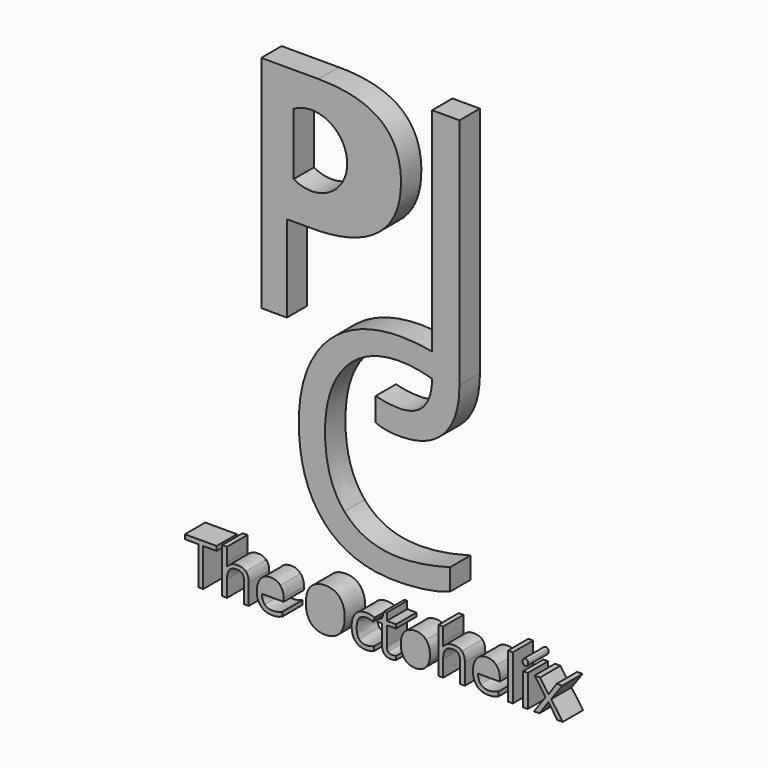
from build123d import *

# Parameters (mm, degrees)
F0_W     = 81.1557248235
F0_H     = 58.2411698997
F1_DEPTH = 2.54
F2_W     = 81.1557248235
F2_H     = 58.2411698997
F2_W_2   = 0.4790653164
F2_H_2   = 3.1614618665
F2_H_3   = 4.4888143231
F3_DEPTH = 25.4
F5_DEPTH = 25.4


with BuildPart() as f1:
    # F0 (on Front) → F1 (new body)
    with BuildSketch(Plane.XZ):
        with Locations((0.0954754651, 1.2412052602)):
            Rectangle(F0_W, F0_H)
    extrude(amount=F1_DEPTH)

    # F2 (on face) → F3 (cut)
    with BuildSketch(Plane.XZ.offset(2.54)):
        with Locations((0.0954754651, 1.2412052602)):
            Rectangle(F2_W, F2_H)
        with BuildLine():
            add(Edge.make_bspline(
                [(-10.8295296872, -25.9732544819), (-11.0556780543, -26.021253319), (-11.3759779865, -26.021253319)],
                knots=[0, 0, 0, 1, 1, 1], degree=2))
            add(Edge.make_bspline(
                [(-11.3759779865, -26.021253319), (-12.0765763972, -26.021253319), (-12.4822588761, -25.593879058)],
                knots=[0, 0, 0, 1, 1, 1], degree=2))
            add(Edge.make_bspline(
                [(-12.4822588761, -25.593879058), (-12.887941355, -25.1665047969), (-12.887941355, -24.4086770035)],
                knots=[0, 0, 0, 1, 1, 1], degree=2))
            add(Edge.make_bspline(
                [(-12.887941355, -24.4086770035), (-12.887941355, -23.6434647736), (-12.5113350947, -23.1934756759)],
                knots=[0, 0, 0, 1, 1, 1], degree=2))
            add(Edge.make_bspline(
                [(-12.5113350947, -23.1934756759), (-12.1347288344, -22.7434865781), (-11.4996672975, -22.7434865781)],
                knots=[0, 0, 0, 1, 1, 1], degree=2))
            add(Edge.make_bspline(
                [(-11.4996672975, -22.7434865781), (-10.9061432157, -22.7434865781), (-10.5599977558, -23.134400184)],
                knots=[0, 0, 0, 1, 1, 1], degree=2))
            add(Edge.make_bspline(
                [(-10.5599977558, -23.134400184), (-10.213852296, -23.52531379), (-10.213852296, -24.1659136543)],
                knots=[0, 0, 0, 1, 1, 1], degree=2))
            Line((-10.213852296, -24.1659136543), (-10.213852296, -24.4686755499))
            Line((-10.213852296, -24.4686755499), (-12.391338002, -24.4686755499))
            add(Edge.make_bspline(
                [(-12.391338002, -24.4686755499), (-12.376569129, -25.0252774493), (-12.1098063613, -25.3137319991)],
                knots=[0, 0, 0, 1, 1, 1], degree=2))
            add(Edge.make_bspline(
                [(-12.1098063613, -25.3137319991), (-11.8430435936, -25.602186549), (-11.3584399499, -25.602186549)],
                knots=[0, 0, 0, 1, 1, 1], degree=2))
            add(Edge.make_bspline(
                [(-11.3584399499, -25.602186549), (-10.8479907784, -25.602186549), (-10.3495413163, -25.3889609457)],
                knots=[0, 0, 0, 1, 1, 1], degree=2))
            Line((-10.3495413163, -25.3889609457), (-10.3495413163, -25.8163352068))
            add(Edge.make_bspline(
                [(-10.3495413163, -25.8163352068), (-10.6033813201, -25.9252556448), (-10.8295296872, -25.9732544819)],
                knots=[0, 0, 0, 1, 1, 1], degree=2))
        make_face(mode=Mode.SUBTRACT)
        Polygon((-18.2361194731, -22.1813463513), (-18.2361194731, -25.9631008818), (-18.7262614442, -25.9631008818), (-18.7262614442, -22.1813463513), (-20.0619213919, -22.1813463513), (-20.0619213919, -21.7456645992), (-16.9004595254, -21.7456645992), (-16.9004595254, -22.1813463513), align=None, mode=Mode.SUBTRACT)
        with BuildLine():
            Line((-13.6946910401, -25.9631008818), (-14.1737563565, -25.9631008818))
            Line((-14.1737563565, -25.9631008818), (-14.1737563565, -23.9176119778))
            add(Edge.make_bspline(
                [(-14.1737563565, -23.9176119778), (-14.1737563565, -23.5317751719), (-14.3495982501, -23.3411644054)],
                knots=[0, 0, 0, 1, 1, 1], degree=2))
            add(Edge.make_bspline(
                [(-14.3495982501, -23.3411644054), (-14.5254401437, -23.1505536388), (-14.9011233494, -23.1505536388)],
                knots=[0, 0, 0, 1, 1, 1], degree=2))
            add(Edge.make_bspline(
                [(-14.9011233494, -23.1505536388), (-15.3995728116, -23.1505536388), (-15.6289518696, -23.4219316793)],
                knots=[0, 0, 0, 1, 1, 1], degree=2))
            add(Edge.make_bspline(
                [(-15.6289518696, -23.4219316793), (-15.8583309277, -23.6933097198), (-15.8583309277, -24.3099101656)],
                knots=[0, 0, 0, 1, 1, 1], degree=2))
            Line((-15.8583309277, -24.3099101656), (-15.8583309277, -25.9631008818))
            Line((-15.8583309277, -25.9631008818), (-16.3373962441, -25.9631008818))
            Line((-16.3373962441, -25.9631008818), (-16.3373962441, -21.4742865587))
            Line((-16.3373962441, -21.4742865587), (-15.8583309277, -21.4742865587))
            Line((-15.8583309277, -21.4742865587), (-15.8583309277, -22.8330228703))
            add(Edge.make_bspline(
                [(-15.8583309277, -22.8330228703), (-15.8583309277, -23.0785553832), (-15.8814072917, -23.2400899311)],
                knots=[0, 0, 0, 1, 1, 1], degree=2))
            Line((-15.8814072917, -23.2400899311), (-15.8527926003, -23.2400899311))
            add(Edge.make_bspline(
                [(-15.8527926003, -23.2400899311), (-15.7115652527, -23.0120954549), (-15.4503408123, -22.8810217074)],
                knots=[0, 0, 0, 1, 1, 1], degree=2))
            add(Edge.make_bspline(
                [(-15.4503408123, -22.8810217074), (-15.189116372, -22.74994796), (-14.8549706214, -22.74994796)],
                knots=[0, 0, 0, 1, 1, 1], degree=2))
            add(Edge.make_bspline(
                [(-14.8549706214, -22.74994796), (-14.275292358, -22.74994796), (-13.9849916991, -23.025479746)],
                knots=[0, 0, 0, 1, 1, 1], degree=2))
            add(Edge.make_bspline(
                [(-13.9849916991, -23.025479746), (-13.6946910401, -23.301011532), (-13.6946910401, -23.9009969957)],
                knots=[0, 0, 0, 1, 1, 1], degree=2))
            Line((-13.6946910401, -23.9009969957), (-13.6946910401, -25.9631008818))
        make_face(mode=Mode.SUBTRACT)
        with BuildLine():
            add(Edge.make_bspline(
                [(-1.1993014674, -25.8560265529), (-1.5159091814, -26.021253319), (-1.9977436615, -26.021253319)],
                knots=[0, 0, 0, 1, 1, 1], degree=2))
            add(Edge.make_bspline(
                [(-1.9977436615, -26.021253319), (-2.6844962538, -26.021253319), (-3.0611025141, -25.5984943308)],
                knots=[0, 0, 0, 1, 1, 1], degree=2))
            add(Edge.make_bspline(
                [(-3.0611025141, -25.5984943308), (-3.4377087744, -25.1757353425), (-3.4377087744, -24.4022156216)],
                knots=[0, 0, 0, 1, 1, 1], degree=2))
            add(Edge.make_bspline(
                [(-3.4377087744, -24.4022156216), (-3.4377087744, -23.6093117549), (-3.0551026594, -23.1763991665)],
                knots=[0, 0, 0, 1, 1, 1], degree=2))
            add(Edge.make_bspline(
                [(-3.0551026594, -23.1763991665), (-2.6724965445, -22.7434865781), (-1.9663598064, -22.7434865781)],
                knots=[0, 0, 0, 1, 1, 1], degree=2))
            add(Edge.make_bspline(
                [(-1.9663598064, -22.7434865781), (-1.7383653302, -22.7434865781), (-1.510370854, -22.792869997)],
                knots=[0, 0, 0, 1, 1, 1], degree=2))
            add(Edge.make_bspline(
                [(-1.510370854, -22.792869997), (-1.2823763778, -22.8422534159), (-1.1531487395, -22.9087133442)],
                knots=[0, 0, 0, 1, 1, 1], degree=2))
            Line((-1.1531487395, -22.9087133442), (-1.2999144144, -23.3148573504))
            add(Edge.make_bspline(
                [(-1.2999144144, -23.3148573504), (-1.4586797987, -23.2511665858), (-1.6460598743, -23.2096291306)],
                knots=[0, 0, 0, 1, 1, 1], degree=2))
            add(Edge.make_bspline(
                [(-1.6460598743, -23.2096291306), (-1.8334399499, -23.1680916755), (-1.9774364611, -23.1680916755)],
                knots=[0, 0, 0, 1, 1, 1], degree=2))
            add(Edge.make_bspline(
                [(-1.9774364611, -23.1680916755), (-2.9411054213, -23.1680916755), (-2.9411054213, -24.3966772942)],
                knots=[0, 0, 0, 1, 1, 1], degree=2))
            add(Edge.make_bspline(
                [(-2.9411054213, -24.3966772942), (-2.9411054213, -24.9791247213), (-2.7061880359, -25.2906556352)],
                knots=[0, 0, 0, 1, 1, 1], degree=2))
            add(Edge.make_bspline(
                [(-2.7061880359, -25.2906556352), (-2.4712706505, -25.602186549), (-2.0097433707, -25.602186549)],
                knots=[0, 0, 0, 1, 1, 1], degree=2))
            add(Edge.make_bspline(
                [(-2.0097433707, -25.602186549), (-1.6146760192, -25.602186549), (-1.1993014674, -25.43234451)],
                knots=[0, 0, 0, 1, 1, 1], degree=2))
            Line((-1.1993014674, -25.43234451), (-1.1993014674, -25.8560265529))
        make_face(mode=Mode.SUBTRACT)
        with BuildLine():
            add(Edge.make_bspline(
                [(-4.6395258109, -22.2561137706), (-4.1290766395, -22.8330228703), (-4.1290766395, -23.8483828859)],
                knots=[0, 0, 0, 1, 1, 1], degree=2))
            add(Edge.make_bspline(
                [(-4.1290766395, -23.8483828859), (-4.1290766395, -24.8609737377), (-4.64137192, -25.4411135284)],
                knots=[0, 0, 0, 1, 1, 1], degree=2))
            add(Edge.make_bspline(
                [(-4.64137192, -25.4411135284), (-5.1536672006, -26.021253319), (-6.0647220508, -26.021253319)],
                knots=[0, 0, 0, 1, 1, 1], degree=2))
            add(Edge.make_bspline(
                [(-6.0647220508, -26.021253319), (-6.9960841014, -26.021253319), (-7.5023795273, -25.4512671285)],
                knots=[0, 0, 0, 1, 1, 1], degree=2))
            add(Edge.make_bspline(
                [(-7.5023795273, -25.4512671285), (-8.0086749532, -24.881280938), (-8.0086749532, -23.8428445585)],
                knots=[0, 0, 0, 1, 1, 1], degree=2))
            add(Edge.make_bspline(
                [(-8.0086749532, -23.8428445585), (-8.0086749532, -22.81271567), (-7.5009949455, -22.2459601705)],
                knots=[0, 0, 0, 1, 1, 1], degree=2))
            add(Edge.make_bspline(
                [(-7.5009949455, -22.2459601705), (-6.9933149377, -21.6792046709), (-6.0591837235, -21.6792046709)],
                knots=[0, 0, 0, 1, 1, 1], degree=2))
            add(Edge.make_bspline(
                [(-6.0591837235, -21.6792046709), (-5.1499749823, -21.6792046709), (-4.6395258109, -22.2561137706)],
                knots=[0, 0, 0, 1, 1, 1], degree=2))
        make_face(mode=Mode.SUBTRACT)
        with BuildLine():
            add(Edge.make_bspline(
                [(0.2000492448, -25.4724973834), (0.3357382651, -25.625262913), (0.5720402323, -25.625262913)],
                knots=[0, 0, 0, 1, 1, 1], degree=2))
            add(Edge.make_bspline(
                [(0.5720402323, -25.625262913), (0.6994217616, -25.625262913), (0.8175727452, -25.6068018218)],
                knots=[0, 0, 0, 1, 1, 1], degree=2))
            add(Edge.make_bspline(
                [(0.8175727452, -25.6068018218), (0.9357237288, -25.5883407306), (1.0049528208, -25.5680335303)],
                knots=[0, 0, 0, 1, 1, 1], degree=2))
            Line((1.0049528208, -25.5680335303), (1.0049528208, -25.9344861904))
            add(Edge.make_bspline(
                [(1.0049528208, -25.9344861904), (0.9274162378, -25.9714083728), (0.77603529, -25.9963308459)],
                knots=[0, 0, 0, 1, 1, 1], degree=2))
            add(Edge.make_bspline(
                [(0.77603529, -25.9963308459), (0.6246543422, -26.021253319), (0.5028111404, -26.021253319)],
                knots=[0, 0, 0, 1, 1, 1], degree=2))
            add(Edge.make_bspline(
                [(0.5028111404, -26.021253319), (-0.4137820373, -26.021253319), (-0.4137820373, -25.0548151952)],
                knots=[0, 0, 0, 1, 1, 1], degree=2))
            Line((-0.4137820373, -25.0548151952), (-0.4137820373, -23.1736300028))
            Line((-0.4137820373, -23.1736300028), (-0.867001826, -23.1736300028))
            Line((-0.867001826, -23.1736300028), (-0.867001826, -22.9428663629))
            Line((-0.867001826, -22.9428663629), (-0.4137820373, -22.7434865781))
            Line((-0.4137820373, -22.7434865781), (-0.2125561433, -22.068733695))
            Line((-0.2125561433, -22.068733695), (0.0643602246, -22.068733695))
            Line((0.0643602246, -22.068733695), (0.0643602246, -22.8016390153))
            Line((0.0643602246, -22.8016390153), (0.9818764568, -22.8016390153))
            Line((0.9818764568, -22.8016390153), (0.9818764568, -23.1736300028))
            Line((0.9818764568, -23.1736300028), (0.0643602246, -23.1736300028))
            Line((0.0643602246, -23.1736300028), (0.0643602246, -25.0345079949))
            add(Edge.make_bspline(
                [(0.0643602246, -25.0345079949), (0.0643602246, -25.3197318538), (0.2000492448, -25.4724973834)],
                knots=[0, 0, 0, 1, 1, 1], degree=2))
        make_face(mode=Mode.SUBTRACT)
        with BuildLine():
            add(Edge.make_bspline(
                [(3.9739578116, -23.1851681848), (4.3648714175, -23.6268497916), (4.3648714175, -24.3791392576)],
                knots=[0, 0, 0, 1, 1, 1], degree=2))
            add(Edge.make_bspline(
                [(4.3648714175, -24.3791392576), (4.3648714175, -25.1526589785), (3.9758039207, -25.5869561488)],
                knots=[0, 0, 0, 1, 1, 1], degree=2))
            add(Edge.make_bspline(
                [(3.9758039207, -25.5869561488), (3.5867364238, -26.021253319), (2.8999838315, -26.021253319)],
                knots=[0, 0, 0, 1, 1, 1], degree=2))
            add(Edge.make_bspline(
                [(2.8999838315, -26.021253319), (2.4753787341, -26.021253319), (2.1467713109, -25.8218735342)],
                knots=[0, 0, 0, 1, 1, 1], degree=2))
            add(Edge.make_bspline(
                [(2.1467713109, -25.8218735342), (1.8181638877, -25.6224937493), (1.6390913032, -25.2505027618)],
                knots=[0, 0, 0, 1, 1, 1], degree=2))
            add(Edge.make_bspline(
                [(1.6390913032, -25.2505027618), (1.4600187186, -24.8785117743), (1.4600187186, -24.3791392576)],
                knots=[0, 0, 0, 1, 1, 1], degree=2))
            add(Edge.make_bspline(
                [(1.4600187186, -24.3791392576), (1.4600187186, -23.6065425913), (1.8467785791, -23.1750145847)],
                knots=[0, 0, 0, 1, 1, 1], degree=2))
            add(Edge.make_bspline(
                [(1.8467785791, -23.1750145847), (2.2335384395, -22.7434865781), (2.9202910318, -22.7434865781)],
                knots=[0, 0, 0, 1, 1, 1], degree=2))
            add(Edge.make_bspline(
                [(2.9202910318, -22.7434865781), (3.5830442056, -22.7434865781), (3.9739578116, -23.1851681848)],
                knots=[0, 0, 0, 1, 1, 1], degree=2))
        make_face(mode=Mode.SUBTRACT)
        with BuildLine():
            add(Edge.make_bspline(
                [(10.7127176236, -25.9732544819), (10.4865692565, -26.021253319), (10.1662693243, -26.021253319)],
                knots=[0, 0, 0, 1, 1, 1], degree=2))
            add(Edge.make_bspline(
                [(10.1662693243, -26.021253319), (9.4656709136, -26.021253319), (9.0599884347, -25.593879058)],
                knots=[0, 0, 0, 1, 1, 1], degree=2))
            add(Edge.make_bspline(
                [(9.0599884347, -25.593879058), (8.6543059558, -25.1665047969), (8.6543059558, -24.4086770035)],
                knots=[0, 0, 0, 1, 1, 1], degree=2))
            add(Edge.make_bspline(
                [(8.6543059558, -24.4086770035), (8.6543059558, -23.6434647736), (9.0309122161, -23.1934756759)],
                knots=[0, 0, 0, 1, 1, 1], degree=2))
            add(Edge.make_bspline(
                [(9.0309122161, -23.1934756759), (9.4075184763, -22.7434865781), (10.0425800133, -22.7434865781)],
                knots=[0, 0, 0, 1, 1, 1], degree=2))
            add(Edge.make_bspline(
                [(10.0425800133, -22.7434865781), (10.6361040951, -22.7434865781), (10.9822495549, -23.134400184)],
                knots=[0, 0, 0, 1, 1, 1], degree=2))
            add(Edge.make_bspline(
                [(10.9822495549, -23.134400184), (11.3283950148, -23.52531379), (11.3283950148, -24.1659136543)],
                knots=[0, 0, 0, 1, 1, 1], degree=2))
            Line((11.3283950148, -24.1659136543), (11.3283950148, -24.4686755499))
            Line((11.3283950148, -24.4686755499), (9.1509093088, -24.4686755499))
            add(Edge.make_bspline(
                [(9.1509093088, -24.4686755499), (9.1656781817, -25.0252774493), (9.4324409495, -25.3137319991)],
                knots=[0, 0, 0, 1, 1, 1], degree=2))
            add(Edge.make_bspline(
                [(9.4324409495, -25.3137319991), (9.6992037172, -25.602186549), (10.1838073609, -25.602186549)],
                knots=[0, 0, 0, 1, 1, 1], degree=2))
            add(Edge.make_bspline(
                [(10.1838073609, -25.602186549), (10.6942565324, -25.602186549), (11.1927059945, -25.3889609457)],
                knots=[0, 0, 0, 1, 1, 1], degree=2))
            Line((11.1927059945, -25.3889609457), (11.1927059945, -25.8163352068))
            add(Edge.make_bspline(
                [(11.1927059945, -25.8163352068), (10.9388659906, -25.9252556448), (10.7127176236, -25.9732544819)],
                knots=[0, 0, 0, 1, 1, 1], degree=2))
        make_face(mode=Mode.SUBTRACT)
        with BuildLine():
            Line((7.8475562707, -25.9631008818), (7.3684909543, -25.9631008818))
            Line((7.3684909543, -25.9631008818), (7.3684909543, -23.9176119778))
            add(Edge.make_bspline(
                [(7.3684909543, -23.9176119778), (7.3684909543, -23.5317751719), (7.1926490607, -23.3411644054)],
                knots=[0, 0, 0, 1, 1, 1], degree=2))
            add(Edge.make_bspline(
                [(7.1926490607, -23.3411644054), (7.0168071671, -23.1505536388), (6.6411239614, -23.1505536388)],
                knots=[0, 0, 0, 1, 1, 1], degree=2))
            add(Edge.make_bspline(
                [(6.6411239614, -23.1505536388), (6.1426744992, -23.1505536388), (5.9132954412, -23.4219316793)],
                knots=[0, 0, 0, 1, 1, 1], degree=2))
            add(Edge.make_bspline(
                [(5.9132954412, -23.4219316793), (5.6839163831, -23.6933097198), (5.6839163831, -24.3099101656)],
                knots=[0, 0, 0, 1, 1, 1], degree=2))
            Line((5.6839163831, -24.3099101656), (5.6839163831, -25.9631008818))
            Line((5.6839163831, -25.9631008818), (5.2048510667, -25.9631008818))
            Line((5.2048510667, -25.9631008818), (5.2048510667, -21.4742865587))
            Line((5.2048510667, -21.4742865587), (5.6839163831, -21.4742865587))
            Line((5.6839163831, -21.4742865587), (5.6839163831, -22.8330228703))
            add(Edge.make_bspline(
                [(5.6839163831, -22.8330228703), (5.6839163831, -23.0785553832), (5.6608400191, -23.2400899311)],
                knots=[0, 0, 0, 1, 1, 1], degree=2))
            Line((5.6608400191, -23.2400899311), (5.6894547105, -23.2400899311))
            add(Edge.make_bspline(
                [(5.6894547105, -23.2400899311), (5.8306820581, -23.0120954549), (6.0919064984, -22.8810217074)],
                knots=[0, 0, 0, 1, 1, 1], degree=2))
            add(Edge.make_bspline(
                [(6.0919064984, -22.8810217074), (6.3531309388, -22.74994796), (6.6872766894, -22.74994796)],
                knots=[0, 0, 0, 1, 1, 1], degree=2))
            add(Edge.make_bspline(
                [(6.6872766894, -22.74994796), (7.2669549528, -22.74994796), (7.5572556117, -23.025479746)],
                knots=[0, 0, 0, 1, 1, 1], degree=2))
            add(Edge.make_bspline(
                [(7.5572556117, -23.025479746), (7.8475562707, -23.301011532), (7.8475562707, -23.9009969957)],
                knots=[0, 0, 0, 1, 1, 1], degree=2))
            Line((7.8475562707, -23.9009969957), (7.8475562707, -25.9631008818))
        make_face(mode=Mode.SUBTRACT)
        with Locations((13.8792562901, -24.3823699486)):
            Rectangle(F2_W_2, F2_H_2, mode=Mode.SUBTRACT)
        Polygon((14.7390816123, -25.9631008818), (15.8956689754, -24.3449862389), (14.796310995, -22.8016390153), (15.3418362397, -22.8016390153), (16.175354507, -24.0126865975), (17.0061036106, -22.8016390153), (17.5460905279, -22.8016390153), (16.4467325475, -24.3449862389), (17.6033199106, -25.9631008818), (17.0614868841, -25.9631008818), (16.175354507, -24.6819011531), (15.2809146388, -25.9631008818), align=None, mode=Mode.SUBTRACT)
        with Locations((12.3848309582, -23.7186937202)):
            Rectangle(F2_W_2, F2_H_3, mode=Mode.SUBTRACT)
        with BuildLine():
            add(Edge.make_bspline(
                [(13.6798765052, -22.1859616241), (13.5991092313, -22.106578932), (13.5991092313, -21.9450443841)],
                knots=[0, 0, 0, 1, 1, 1], degree=2))
            add(Edge.make_bspline(
                [(13.5991092313, -21.9450443841), (13.5991092313, -21.7807406725), (13.6798765052, -21.704127144)],
                knots=[0, 0, 0, 1, 1, 1], degree=2))
            add(Edge.make_bspline(
                [(13.6798765052, -21.704127144), (13.7606437792, -21.6275136156), (13.882486981, -21.6275136156)],
                knots=[0, 0, 0, 1, 1, 1], degree=2))
            add(Edge.make_bspline(
                [(13.882486981, -21.6275136156), (13.997868801, -21.6275136156), (14.0814052386, -21.7055117259)],
                knots=[0, 0, 0, 1, 1, 1], degree=2))
            add(Edge.make_bspline(
                [(14.0814052386, -21.7055117259), (14.1649416763, -21.7835098361), (14.1649416763, -21.9450443841)],
                knots=[0, 0, 0, 1, 1, 1], degree=2))
            add(Edge.make_bspline(
                [(14.1649416763, -21.9450443841), (14.1649416763, -22.106578932), (14.0814052386, -22.1859616241)],
                knots=[0, 0, 0, 1, 1, 1], degree=2))
            add(Edge.make_bspline(
                [(14.0814052386, -22.1859616241), (13.997868801, -22.2653443162), (13.882486981, -22.2653443162)],
                knots=[0, 0, 0, 1, 1, 1], degree=2))
            add(Edge.make_bspline(
                [(13.882486981, -22.2653443162), (13.7606437792, -22.2653443162), (13.6798765052, -22.1859616241)],
                knots=[0, 0, 0, 1, 1, 1], degree=2))
        make_face(mode=Mode.SUBTRACT)
        with BuildLine():
            add(Edge.make_bspline(
                [(5.7669295832, -4.5039274474), (4.225368563, -6.1816596911), (1.3323723817, -6.1816596911)],
                knots=[0, 0, 0, 1, 1, 1], degree=2))
            add(Edge.make_bspline(
                [(1.3323723817, -6.1816596911), (-0.1732188814, -6.1816596911), (-1.0416315894, -5.7500226054)],
                knots=[0, 0, 0, 1, 1, 1], degree=2))
            Line((-1.0416315894, -5.7500226054), (-1.0416315894, -3.4222654649))
            add(Edge.make_bspline(
                [(-1.0416315894, -3.4222654649), (0.0991235655, -3.7408547424), (1.3323723817, -3.7408547424)],
                knots=[0, 0, 0, 1, 1, 1], degree=2))
            add(Edge.make_bspline(
                [(1.3323723817, -3.7408547424), (2.9253187693, -3.7408547424), (3.7526231835, -2.7773791048)],
                knots=[0, 0, 0, 1, 1, 1], degree=2))
            add(Edge.make_bspline(
                [(3.7526231835, -2.7773791048), (4.5607247165, -1.836267071), (4.5794818722, -0.0837482394)],
                knots=[0, 0, 0, 0.9767886151, 0.9767886151, 0.9767886151], degree=2))
            add(Edge.make_bspline(
                [(4.5794818722, -0.0837482394), (2.9814549827, 0.4170917115), (1.3834280932, 0.4170917115)],
                knots=[0.3306150161, 0.3306150161, 0.3306150161, 1, 1, 1], degree=2))
            add(Edge.make_bspline(
                [(1.3834280932, 0.4170917115), (-2.0802357443, 0.4170917115), (-4.0857569038, -1.8897176039)],
                knots=[0, 0, 0, 1, 1, 1], degree=2))
            add(Edge.make_bspline(
                [(-4.0857569038, -1.8897176039), (-6.0912780633, -4.1965269193), (-6.0912780633, -8.2075692383)],
                knots=[0, 0, 0, 1, 1, 1], degree=2))
            add(Edge.make_bspline(
                [(-6.0912780633, -8.2075692383), (-6.0912780633, -12.3290072176), (-4.157054101, -14.5806187029)],
                knots=[0, 0, 0, 1, 1, 1], degree=2))
            add(Edge.make_bspline(
                [(-4.157054101, -14.5806187029), (-2.2228301386, -16.8322301882), (1.3558291782, -16.8322301882)],
                knots=[0, 0, 0, 1, 1, 1], degree=2))
            add(Edge.make_bspline(
                [(1.3558291782, -16.8322301882), (3.554542743, -16.8322301882), (6.3742318962, -16.0410612904)],
                knots=[0, 0, 0, 1, 1, 1], degree=2))
            Line((6.3742318962, -16.0410612904), (6.3742318962, -18.179977206))
            add(Edge.make_bspline(
                [(6.3742318962, -18.179977206), (4.1893177889, -19.003344838), (0.9832438251, -19.003344838)],
                knots=[0, 0, 0, 1, 1, 1], degree=2))
            add(Edge.make_bspline(
                [(0.9832438251, -19.003344838), (-3.6579737207, -19.003344838), (-6.1809745372, -16.1836556848)],
                knots=[0, 0, 0, 1, 1, 1], degree=2))
            add(Edge.make_bspline(
                [(-6.1809745372, -16.1836556848), (-8.7039753538, -13.3639665316), (-8.7039753538, -8.1753705041)],
                knots=[0, 0, 0, 1, 1, 1], degree=2))
            add(Edge.make_bspline(
                [(-8.7039753538, -8.1753705041), (-8.7039753538, -4.9278981678), (-7.489623092, -2.4853941868)],
                knots=[0, 0, 0, 1, 1, 1], degree=2))
            add(Edge.make_bspline(
                [(-7.489623092, -2.4853941868), (-6.2752708303, -0.0428902058), (-3.9822609724, 1.2795578065)],
                knots=[0, 0, 0, 1, 1, 1], degree=2))
            add(Edge.make_bspline(
                [(-3.9822609724, 1.2795578065), (-1.6892511145, 2.6020058188), (1.4156268274, 2.6020058188)],
                knots=[0, 0, 0, 1, 1, 1], degree=2))
            add(Edge.make_bspline(
                [(1.4156268274, 2.6020058188), (3.1062573631, 2.6020058188), (4.5799275977, 2.2862080471)],
                knots=[0, 0, 0, 0.5118980857, 0.5118980857, 0.5118980857], degree=2))
            Line((4.5799275977, 2.2862080471), (4.5799275977, 23.4779743381))
            Line((4.5799275977, 23.4779743381), (7.3084906035, 23.4779743381))
            Line((7.3084906035, 23.4779743381), (7.3084906035, 0.2260956163))
            add(Edge.make_bspline(
                [(7.3084906035, 0.2260956163), (7.3084906035, -2.8261952038), (5.7669295832, -4.5039274474)],
                knots=[0, 0, 0, 1, 1, 1], degree=2))
        make_face(mode=Mode.SUBTRACT)
        with BuildLine():
            add(Edge.make_bspline(
                [(-6.7522030737, 22.5361302835), (1.4774121016, 22.5361302835), (1.4774121016, 16.1379890462)],
                knots=[0, 0, 0, 1, 1, 1], degree=2))
            add(Edge.make_bspline(
                [(1.4774121016, 16.1379890462), (1.4774121016, 12.8019184085), (-0.7987110207, 11.0064971071)],
                knots=[0, 0, 0, 1, 1, 1], degree=2))
            add(Edge.make_bspline(
                [(-0.7987110207, 11.0064971071), (-3.0748341431, 9.2110758058), (-7.309817186, 9.2110758058)],
                knots=[0, 0, 0, 1, 1, 1], degree=2))
            Line((-7.309817186, 9.2110758058), (-9.8959929829, 9.2110758058))
            Line((-9.8959929829, 9.2110758058), (-9.8959929829, 0.5728640826))
            Line((-9.8959929829, 0.5728640826), (-12.4485196523, 0.5728640826))
            Line((-12.4485196523, 0.5728640826), (-12.4485196523, 22.5361302835))
            Line((-12.4485196523, 22.5361302835), (-6.7522030737, 22.5361302835))
        make_face(mode=Mode.SUBTRACT)
    extrude(amount=-F3_DEPTH, mode=Mode.SUBTRACT)

    # F4 (on face) → F5 (cut)
    with BuildSketch(Plane.XZ.offset(2.54)):
        with BuildLine():
            Line((-9.218858555, 19.1279854625), (-9.218858555, 12.9459230229))
            ThreePointArc((-9.218858555, 12.9459230229), (-3.8815289001, 16.0369542427), (-9.218858555, 19.1279854625))
        make_face()
    extrude(amount=-F5_DEPTH, mode=Mode.SUBTRACT)


solid = f1.part
